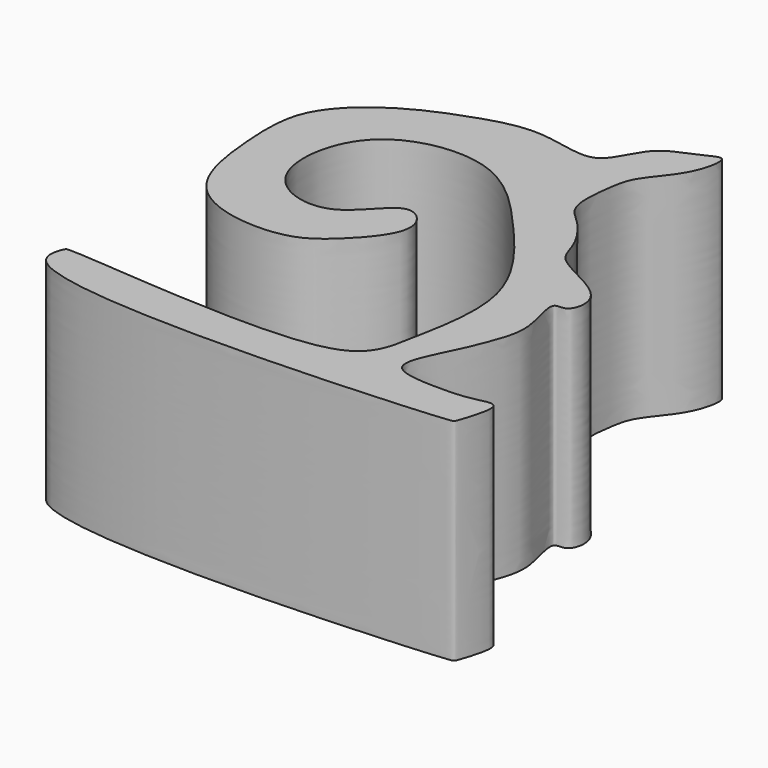
from build123d import *

# Parameters (mm, degrees)
F1_DEPTH = 25


with BuildPart() as f1:
    # F0 (on Top) → F1 (new body)
    with BuildSketch(Plane.XY):
        with BuildLine():
            add(Edge.make_bspline(
                [(124.7296780348, -290.0494039059), (124.5647688947, -290.5182699497), (124.4418663686, -290.7785736141), (70.2628798086, -294.5153977616), (74.9130851271, -286.0888490457), (74.9346084778, -286.0487527351), (75.2218791235, -285.4527721132), (109.5558473659, -289.8672541228), (110.9533513844, -279.9615423753), (113.6975023207, -267.5517141297), (104.2646494772, -256.2034191203), (95.4965426072, -246.8586922468), (82.2702392491, -249.2228746263), (79.8450546145, -259.1940177351), (83.0454316976, -264.5200235765), (90.1951126839, -265.6383521145), (94.164131183, -258.2605972196), (98.6646461262, -262.7969031606), (93.6401810792, -268.6126985868), (89.6490446838, -271.6492677962), (82.2570386958, -271.582611331), (77.3211348723, -268.93318375), (75.1438036953, -264.4509106189), (74.4282338728, -258.1902997226), (74.2479683327, -251.4280575108), (78.0314259442, -246.8188867623), (82.6838135558, -243.8619486368), (87.0492072943, -242.091008223), (93.3655827372, -239.9772378732), (98.5351952931, -241.2413833191), (102.7644323914, -241.7526726598), (104.5246782036, -236.0712551992), (108.5406050487, -235.0402930703), (111.4961756703, -233.1396267498), (111.1238185649, -236.5321038243), (109.6007581395, -239.3237173523), (107.0588017446, -242.1331427108), (106.514627422, -244.8212042024), (105.8725165375, -250.3178385294), (108.8151146136, -252.1685096122), (111.4615733714, -256.1772474769), (111.7310239419, -259.5305556621), (120.129414711, -262.0350068096), (119.0369687993, -266.9398989656), (116.4778074201, -266.0096097898), (118.3854506888, -271.1657982725), (117.8003293017, -274.4538460003), (115.7895800643, -279.3196977742), (114.1031413001, -282.3857168197), (113.2203222307, -286.0803740694), (119.8285757725, -286.213843988), (122.8863599585, -286.0985783511), (126.5435203894, -284.816540966), (125.0476634704, -289.1453147016), (124.7296780348, -290.0494039059)],
                knots=[0, 0, 0, 0, 0.0089520352, 0.0672796438, 0.0818166591, 0.0833854273, 0.0870049402, 0.1337349279, 0.1572312225, 0.1858372392, 0.2173186573, 0.2467242718, 0.2743760871, 0.2990075688, 0.3186194728, 0.3390728957, 0.3603634549, 0.3759156469, 0.3975196908, 0.4166494162, 0.4386432301, 0.4579768793, 0.4759947411, 0.4970819805, 0.5185137873, 0.5383634326, 0.5577570207, 0.576057439, 0.5973479661, 0.6167481664, 0.6323321663, 0.650977673, 0.6682701284, 0.6811120679, 0.6935182301, 0.7091971587, 0.7249878885, 0.7391324138, 0.7577898301, 0.7728743275, 0.7906954763, 0.8054319286, 0.8284765737, 0.8433417563, 0.8528631722, 0.8698691128, 0.8861407746, 0.9049880824, 0.9212298011, 0.9345780211, 0.954060445, 0.9703320882, 0.9827382714, 1, 1, 1, 1], degree=3))
        make_face()
    extrude(amount=F1_DEPTH)


solid = f1.part
